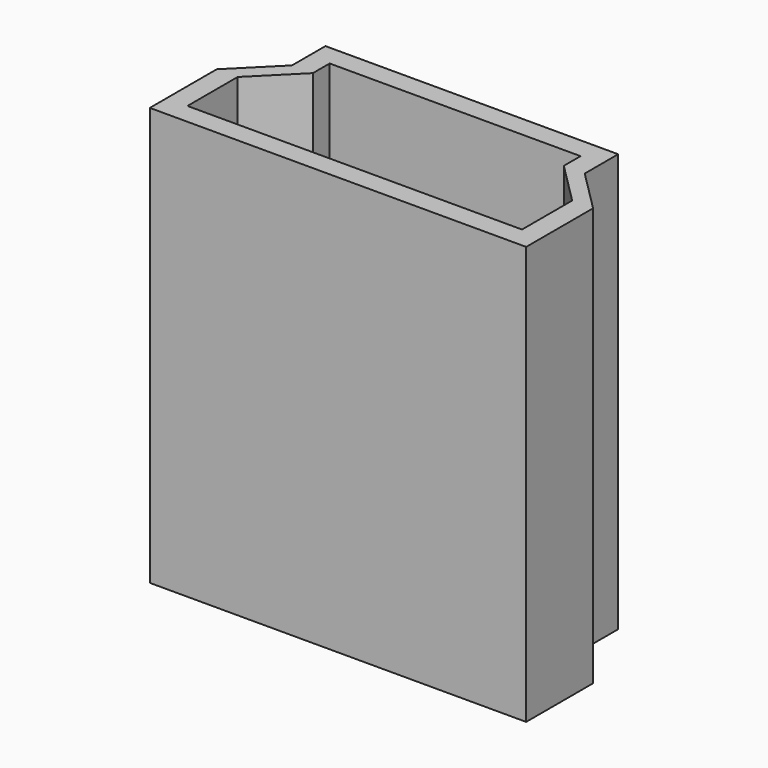
from build123d import *

# Parameters (mm, degrees)
F0_W     = 7.14375
F0_H     = 7.9375
F1_DEPTH = 3.175
F3_DEPTH = 7.9385
F5_DEPTH = 7.62


with BuildPart() as f1:
    # F0 (on Front) → F1 (new body)
    with BuildSketch(Plane.XZ):
        with Locations((-18.391654, -5.990053)):
            Rectangle(F0_W, F0_H)
    extrude(amount=F1_DEPTH)

    # F2 (on face) → F3 (cut, through all)
    with BuildSketch(Plane(origin=(0, 0, -9.958803), x_dir=(1, 0, 0), z_dir=(0, 0, -1))):
        Polygon((-21.963529, 0), (-21.169779, 0), (-21.169779, 0.79375), (-21.963529, 1.5875), align=None)
        Polygon((-14.819779, 0), (-14.819779, 1.5875), (-15.613529, 0.79375), (-15.613529, 0), align=None)
    extrude(amount=-F3_DEPTH, mode=Mode.SUBTRACT)

    # F4 (on face) → F5 (cut)
    with BuildSketch(Plane.XY.offset(-2.021303)):
        Polygon((-21.566654, -2.778125), (-15.216654, -2.778125), (-15.216654, -1.5875), (-16.010404, -0.79375), (-16.010404, -0.396875), (-20.772904, -0.396875), (-20.772904, -0.79375), (-21.566654, -1.5875), align=None)
    extrude(amount=-F5_DEPTH, mode=Mode.SUBTRACT)


solid = f1.part
